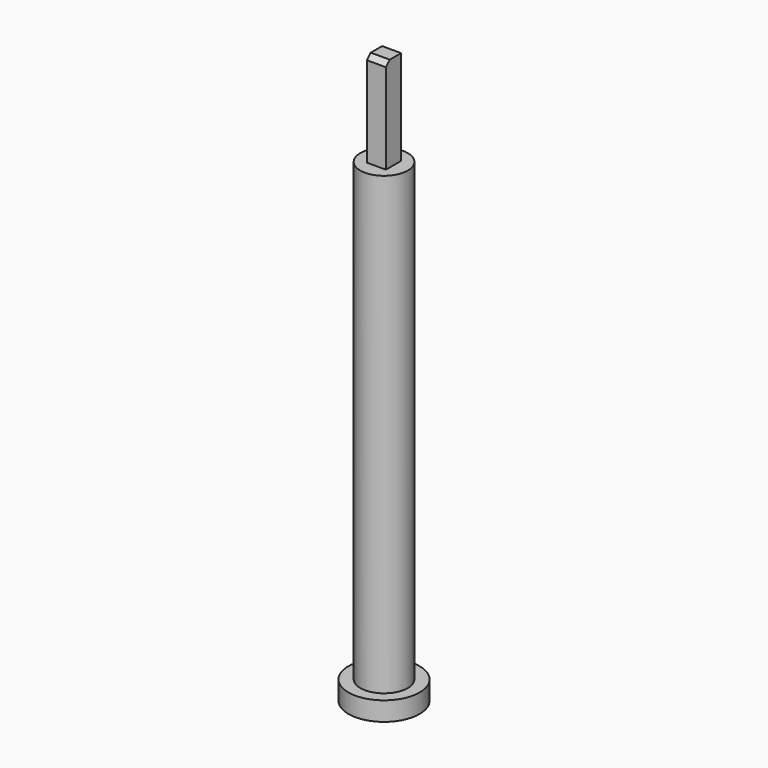
from build123d import *

# Parameters (mm, degrees)
F0_R          = 7.5
F1_DEPTH      = 4
F2_R          = 5
F3_DEPTH      = 100
F4_W          = 4
F4_H          = 4
F5_DEPTH      = 20
F7_DEPTH      = 25
F7_DEPTH_BACK = 25


with BuildPart() as f1:
    # F0 (on Top) → F1 (new body)
    with BuildSketch(Plane.XY):
        Circle(F0_R)
    extrude(amount=F1_DEPTH)

    # F2 (on Top) → F3 (join)
    with BuildSketch(Plane.XY):
        Circle(F2_R)
    extrude(amount=F3_DEPTH)

    # F4 (on face) → F5 (join)
    with BuildSketch(Plane.XY.offset(100)):
        Rectangle(F4_W, F4_H)
    extrude(amount=F5_DEPTH)

    # F6 (on Right) → F7 (cut, two sides)
    with BuildSketch(Plane.YZ) as f7_sk:
        Polygon((0, 121), (-3, 121), (-3, 118), align=None)
    extrude(amount=-F7_DEPTH, mode=Mode.SUBTRACT)
    extrude(f7_sk.sketch, amount=F7_DEPTH_BACK, mode=Mode.SUBTRACT)


solid = f1.part
